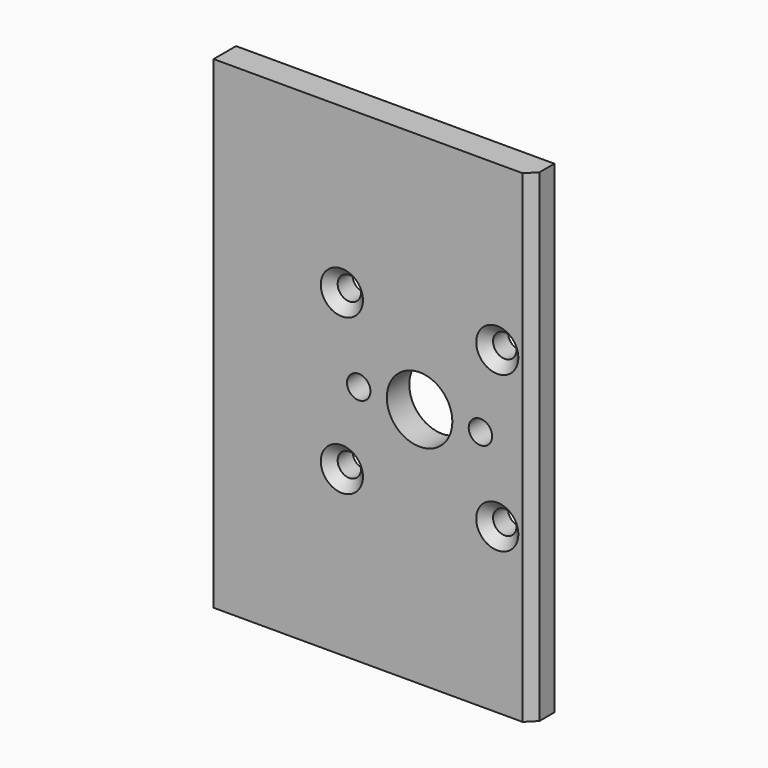
from build123d import *

# Parameters (mm, degrees)
F0_W     = 170
F0_H     = 258
F0_R     = 6.25
F0_R_2   = 17.5
F1_DEPTH = 15
F2_SIZE2 = 5
F2_SIZE  = 5


with BuildPart() as f1:
    # F0 (on Front) → F1 (new body)
    with BuildSketch(Plane.XZ):
        with Locations((-25, 0)):
            Rectangle(F0_W, F0_H)
        with Locations((-41.5, -41.5)):
            Circle(F0_R, mode=Mode.SUBTRACT)
        with Locations((41.5, -41.5)):
            Circle(F0_R, mode=Mode.SUBTRACT)
        with Locations((-32.5, 0)):
            Circle(F0_R, mode=Mode.SUBTRACT)
        with Locations((-41.5, 41.5)):
            Circle(F0_R, mode=Mode.SUBTRACT)
        Circle(F0_R_2, mode=Mode.SUBTRACT)
        with Locations((32.5, 0)):
            Circle(F0_R, mode=Mode.SUBTRACT)
        with Locations((41.5, 41.5)):
            Circle(F0_R, mode=Mode.SUBTRACT)
    extrude(amount=F1_DEPTH)

    # F2
    f2_edges = [f1.edges().sort_by_distance(p)[0] for p in [
        (-47.75, -15, 41.5),
        (35.25, -15, 41.5),
        (-47.75, -15, -41.5),
        (35.25, -15, -41.5),
        (60, -15, 0),
    ]]
    chamfer(f2_edges, length=F2_SIZE, length2=F2_SIZE2)


solid = f1.part
